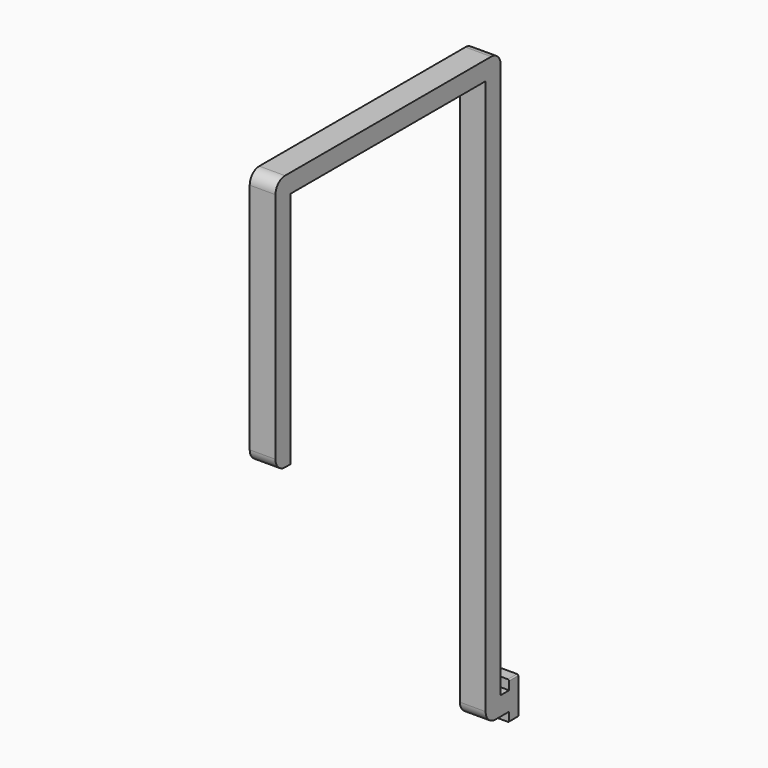
from build123d import *

# Parameters (mm, degrees)
F1_DEPTH = 5.5
F2_R     = 0.254
F3_R     = 2.54


with BuildPart() as f1:
    # F0 (on Right) → F1 (new body)
    with BuildSketch(Plane.YZ):
        Polygon((0, 0), (0, -29.4), (0, -54.8), (4, -54.8), (4, -4), (56.07, -4), (56.07, -125), (60.07, -125), (62.32, -125), (62.32, -127), (64.77, -127), (64.77, -119), (62.32, -119), (62.32, -121), (60.07, -121), (60.07, 0), align=None)
    extrude(amount=F1_DEPTH)

    # F2
    f2_edges = [f1.edges().sort_by_distance(p)[0] for p in [
        (5.5, 63.545, -119),
        (5.5, 63.545, -127),
        (0, 63.545, -119),
        (0, 63.545, -127),
    ]]
    fillet(f2_edges, radius=F2_R)

    # F3
    f3_edges = [f1.edges().sort_by_distance(p)[0] for p in [
        (2.75, 60.07, 0),
        (2.75, 0, 0),
        (2.75, 56.07, -125),
        (2.75, 0, -54.8),
    ]]
    fillet(f3_edges, radius=F3_R)


solid = f1.part
